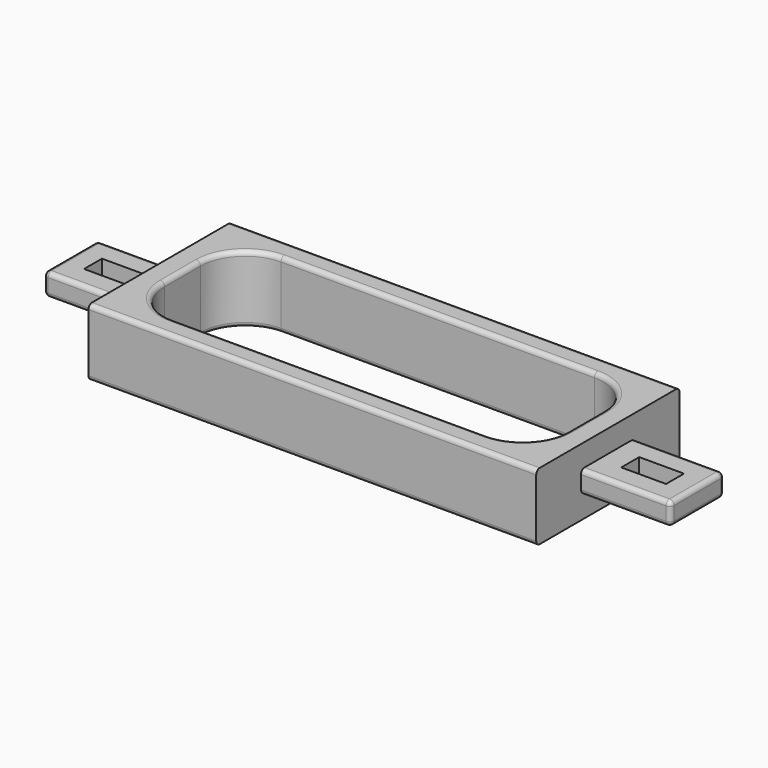
from build123d import *

# Parameters (mm, degrees)
SKETCH001_W      = 20
SKETCH001_H      = 15
SKETCH001_W_2    = 10
SKETCH001_H_2    = 5
EXTRUDE001_DEPTH = 2.5
SKETCH002_W      = 90
SKETCH002_H      = 30
EXTRUDE002_DEPTH = 40
SKETCH_W         = 100
SKETCH_H         = 40
EXTRUDE_DEPTH    = 7.5
FILLET_R         = 10
FILLET001_R      = 1
FILLET002_R      = 1
FILLET003_R      = 1
FILLET004_R      = 1


with BuildPart() as extrude001:
    # Sketch001 (on Sketch) → Extrude001 (new body, symmetric)
    with BuildSketch(Plane.XY):
        with Locations((-60, 0)):
            Rectangle(SKETCH001_W, SKETCH001_H)
        with Locations((-60, 0)):
            Rectangle(SKETCH001_W_2, SKETCH001_H_2, mode=Mode.SUBTRACT)
        with Locations((60, 0)):
            Rectangle(SKETCH001_W, SKETCH001_H)
        with Locations((60, 0)):
            Rectangle(SKETCH001_W_2, SKETCH001_H_2, mode=Mode.SUBTRACT)
    extrude(amount=EXTRUDE001_DEPTH, both=True)


with BuildPart() as extrude002:
    # Sketch002 (on Face6 of Extrude) → Extrude002 (new body)
    with BuildSketch(Plane.XY.offset(7.5)):
        Rectangle(SKETCH002_W, SKETCH002_H)
    extrude(amount=EXTRUDE002_DEPTH)


with BuildPart() as extrude002_1:
    # Extrude002 placement: moved
    add(extrude002.part.moved(Location((0, 0, -28))))


with BuildPart() as fillet004:
    # Sketch → Extrude (new body, symmetric)
    with BuildSketch(Plane.XY):
        Rectangle(SKETCH_W, SKETCH_H)
    extrude(amount=EXTRUDE_DEPTH, both=True)

    # Cut: cut Extrude002
    add(extrude002_1.part, mode=Mode.SUBTRACT)

    # Fillet
    fillet_edges = [fillet004.edges().sort_by_distance(p)[0] for p in [
        (45, -15, 0),
        (-45, -15, 0),
        (45, 15, 0),
        (-45, 15, 0),
    ]]
    fillet(fillet_edges, radius=FILLET_R)

    # Fusion: union Extrude001
    add(extrude001.part)

    # Fillet001
    fillet001_edges = [fillet004.edges().sort_by_distance(p)[0] for p in [
        (0, -20, -7.5),
        (0, 20, -7.5),
        (0, -20, 7.5),
        (0, 20, 7.5),
    ]]
    fillet(fillet001_edges, radius=FILLET001_R)

    # Fillet002
    fillet002_edges = [fillet004.edges().sort_by_distance(p)[0] for p in [
        (0, -15, -7.5),
        (42.071068, -12.071068, -7.5),
        (-42.071068, -12.071068, -7.5),
        (45, 0, -7.5),
        (-45, 0, -7.5),
        (42.071068, 12.071068, -7.5),
        (-42.071068, 12.071068, -7.5),
        (0, 15, -7.5),
        (0, -15, 7.5),
        (42.071068, -12.071068, 7.5),
        (-42.071068, -12.071068, 7.5),
        (45, 0, 7.5),
        (-45, 0, 7.5),
        (42.071068, 12.071068, 7.5),
        (-42.071068, 12.071068, 7.5),
        (0, 15, 7.5),
    ]]
    fillet(fillet002_edges, radius=FILLET002_R)

    # Fillet003
    fillet003_edges = [fillet004.edges().sort_by_distance(p)[0] for p in [
        (70, 7.5, 0),
        (60, 7.5, -2.5),
        (60, 7.5, 2.5),
        (60, -7.5, 2.5),
        (70, 0, 2.5),
        (70, -7.5, 0),
        (60, -7.5, -2.5),
        (70, 0, -2.5),
    ]]
    fillet(fillet003_edges, radius=FILLET003_R)

    # Fillet004
    fillet004_edges = [fillet004.edges().sort_by_distance(p)[0] for p in [
        (-70, 0, -2.5),
        (-60, -7.5, -2.5),
        (-60, 7.5, -2.5),
        (-70, 7.5, 0),
        (-60, 7.5, 2.5),
        (-70, 0, 2.5),
        (-60, -7.5, 2.5),
        (-70, -7.5, 0),
    ]]
    fillet(fillet004_edges, radius=FILLET004_R)


solid = fillet004.part
